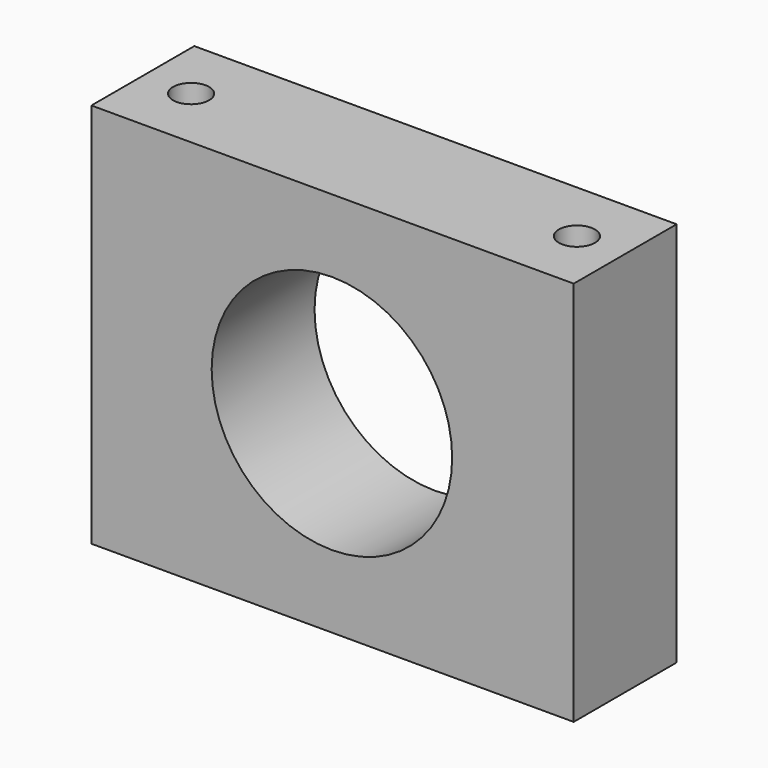
from build123d import *

# Parameters (mm, degrees)
F0_W     = 95.25
F0_H     = 76.2
F1_DEPTH = 25.4
F2_R     = 23.749
F3_DEPTH = 25.401
F4_R     = 3.5687
F5_DEPTH = 76.201
F6_R     = 3.5687
F7_DEPTH = 76.201


with BuildPart() as f1:
    # F0 (on Front) → F1 (new body)
    with BuildSketch(Plane.XZ):
        with Locations((0.332502, 0.408639)):
            Rectangle(F0_W, F0_H)
    extrude(amount=F1_DEPTH)

    # F2 (on face) → F3 (cut, through all)
    with BuildSketch(Plane.XZ.offset(25.4)):
        with Locations((0.205502, 0.408639)):
            Circle(F2_R)
    extrude(amount=-F3_DEPTH, mode=Mode.SUBTRACT)

    # F4 (on face) → F5 (cut, through all)
    with BuildSketch(Plane(origin=(0, 0, -37.691361), x_dir=(1, 0, 0), z_dir=(0, 0, -1))):
        with Locations((-37.767498, 12.7)):
            Circle(F4_R)
    extrude(amount=-F5_DEPTH, mode=Mode.SUBTRACT)

    # F6 (on face) → F7 (cut, through all)
    with BuildSketch(Plane(origin=(0, 0, -37.691361), x_dir=(1, 0, 0), z_dir=(0, 0, -1))):
        with Locations((38.432502, 12.7)):
            Circle(F6_R)
    extrude(amount=-F7_DEPTH, mode=Mode.SUBTRACT)


solid = f1.part
